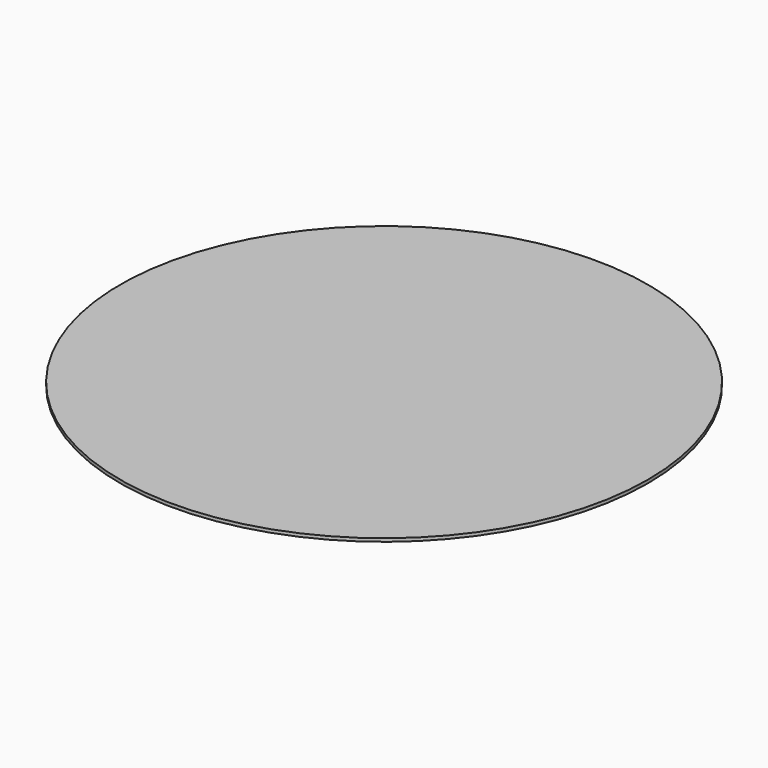
from build123d import *

# Parameters (mm, degrees)
SKETCH_R  = 165
PAD_DEPTH = 2


with BuildPart() as part:
    # Sketch → Pad (new body)
    with BuildSketch(Plane.XY):
        Circle(SKETCH_R)
    extrude(amount=PAD_DEPTH)


solid = part.part
